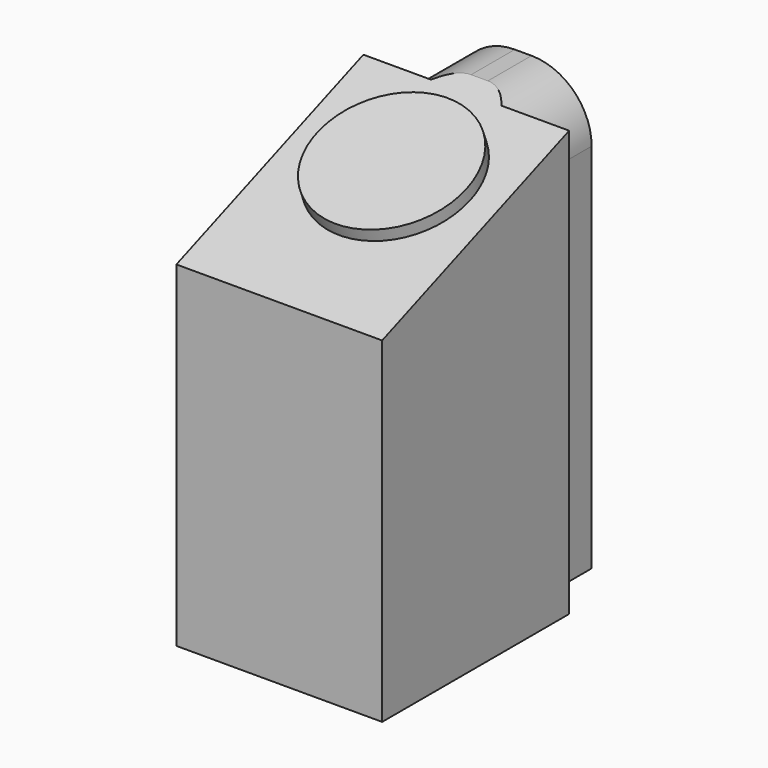
from build123d import *

# Parameters (mm, degrees)
F0_W     = 269.564176
F0_H     = 140
F1_DEPTH = 850
F3_DEPTH = 405.001
F4_R     = 118.296465
F5_R     = 147.774344
F6_DEPTH = 25


with BuildPart() as f1:
    # F0 (on Top) → F1 (new body)
    with BuildSketch(Plane.XY):
        Polygon((202.5, -230), (202.5, 230), (134.782088, 230), (-134.782088, 230), (-202.5, 230), (-202.5, -230), align=None)
        with Locations((0, 300)):
            Rectangle(F0_W, F0_H)
    extrude(amount=F1_DEPTH)

    # F2 (on face) → F3 (cut, through all)
    with BuildSketch(Plane.YZ.offset(202.5)):
        Polygon((-312.20004, 629.447699), (364.741862, 889.204443), (-312.20004, 956.11155), align=None)
    extrude(amount=-F3_DEPTH, mode=Mode.SUBTRACT)

    # F4
    f4_edges = [f1.edges().sort_by_distance(p)[0] for p in [
        (134.782088, 316.286348, 850),
        (-134.782088, 316.286348, 850),
    ]]
    fillet(f4_edges, radius=F4_R)

    # F5 (on face) → F6 (join)
    with BuildSketch(Plane(origin=(0, -250.602024, 653.084144), x_dir=(1, 0, 0), z_dir=(0, -0.358251, 0.933625))):
        with Locations((0, 327.743053)):
            Circle(F5_R)
    extrude(amount=F6_DEPTH)


solid = f1.part
